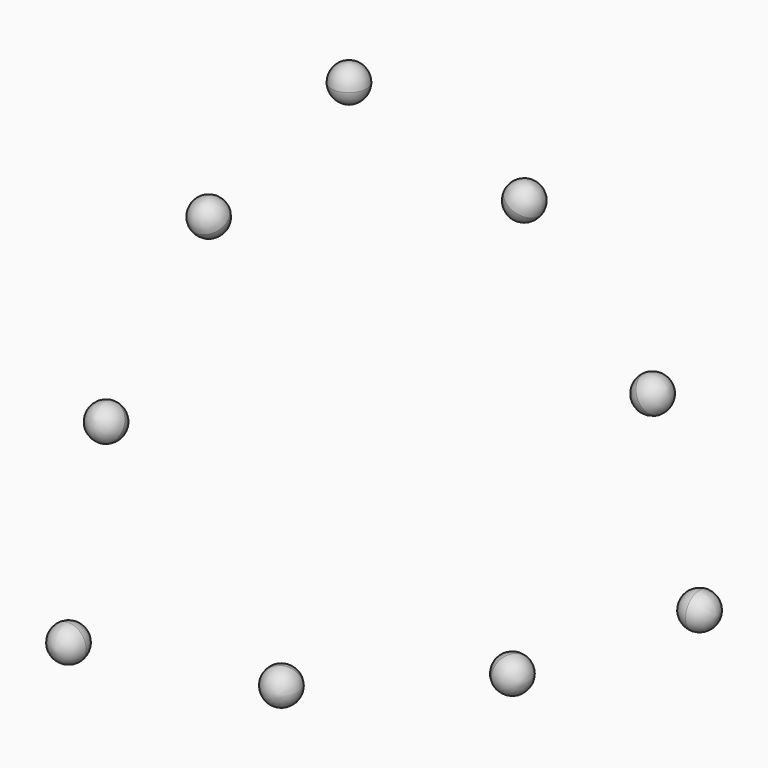
from build123d import *

# Parameters (mm, degrees)
F5_COUNT = 4
F5_ANGLE = 90
F6_COUNT = 2
F6_ANGLE = 90
F7_COUNT = 2
F7_ANGLE = 90


with BuildPart() as f4:
    # F3 (on Right) → F4 (revolve)
    with BuildSketch(Plane.YZ):
        with BuildLine():
            ThreePointArc((0, 47.5), (1.767767, 48.232233), (2.5, 50))
            ThreePointArc((2.5, 50), (1.767767, 51.767767), (0, 52.5))
            Line((0, 52.5), (0, 47.5))
        make_face()
    revolve(axis=Axis((0, 0, 50), (0, 0, -1)))


with BuildPart() as f5_1:
    # F5: instance of F4
    add(f4.part.rotate(Axis((0, 0, 0), (1, 0, 0)), 1 * F5_ANGLE / (F5_COUNT - 1)))


with BuildPart() as f5_2:
    # F5: instance of F4
    add(f4.part.rotate(Axis((0, 0, 0), (1, 0, 0)), 2 * F5_ANGLE / (F5_COUNT - 1)))


with BuildPart() as f5_3:
    # F5: instance of F4
    add(f4.part.rotate(Axis((0, 0, 0), (1, 0, 0)), 3 * F5_ANGLE / (F5_COUNT - 1)))


with BuildPart() as f6_1:
    # F6: instance of F5_1
    add(f5_1.part.rotate(Axis((0, 0, 0), (0, 0, 1)), 1 * F6_ANGLE / (F6_COUNT - 1)))


with BuildPart() as f6_2:
    # F6: instance of F5_2
    add(f5_2.part.rotate(Axis((0, 0, 0), (0, 0, 1)), 1 * F6_ANGLE / (F6_COUNT - 1)))


with BuildPart() as f6_3:
    # F6: instance of F5_3
    add(f5_3.part.rotate(Axis((0, 0, 0), (0, 0, 1)), 1 * F6_ANGLE / (F6_COUNT - 1)))


with BuildPart() as f7_1:
    # F7: instance of F5_2
    add(f5_2.part.rotate(Axis((0, 0, 0), (0, 1, 0)), 1 * F7_ANGLE / (F7_COUNT - 1)))


with BuildPart() as f7_2:
    # F7: instance of F5_1
    add(f5_1.part.rotate(Axis((0, 0, 0), (0, 1, 0)), 1 * F7_ANGLE / (F7_COUNT - 1)))


solid = Compound([f4.part, f5_1.part, f5_2.part, f5_3.part, f6_1.part, f6_2.part, f6_3.part, f7_1.part, f7_2.part])
